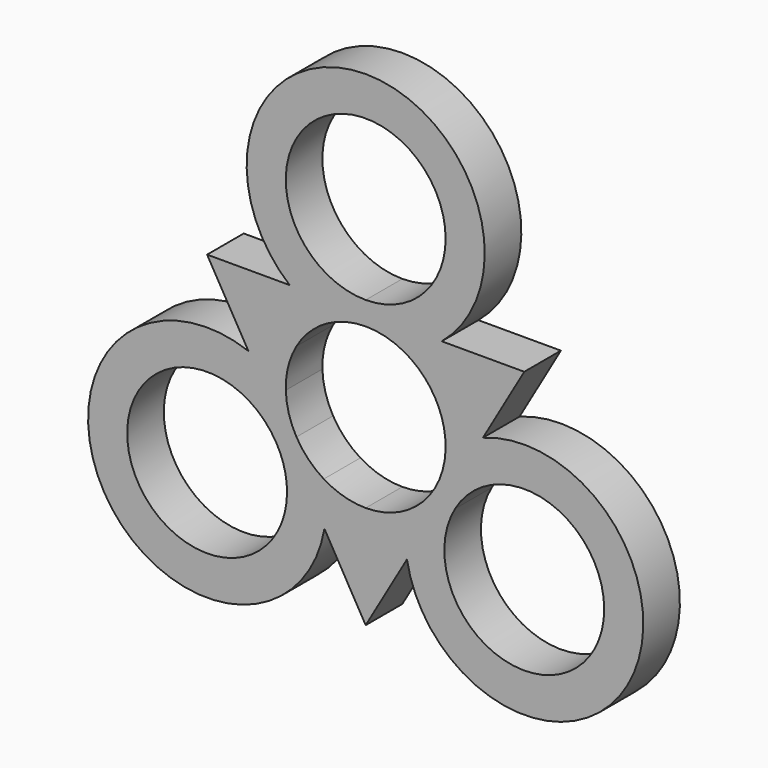
from build123d import *

# Parameters (mm, degrees)
F1_DEPTH = 6.35


with BuildPart() as f1:
    # F0 (on Front) → F1 (new body)
    with BuildSketch(Plane.XZ):
        with BuildLine():
            ThreePointArc((-5.723816, -15.486059), (-5.488792, -12.459869), (-5.811737, -9.441795))
            ThreePointArc((-5.811737, -9.441795), (-7.949382, -7.728591), (-9.60171, -5.54355))
            ThreePointArc((-9.60171, -5.54355), (-10.667847, -3.020071), (-11.082703, -0.312214))
            ThreePointArc((-11.082703, -0.312214), (-13.533332, 1.47553), (-16.269675, 2.784745))
            ThreePointArc((-16.269675, 2.784745), (-36.296072, -20.953359), (-5.723816, -15.486059))
        make_face()
        with BuildLine():
            ThreePointArc((-10.909945, -12.7), (-32.706361, -15.569553), (-12.395335, -7.15645))
            ThreePointArc((-12.395335, -7.15645), (-11.287729, -9.830447), (-10.909945, -12.7))
        make_face(mode=Mode.SUBTRACT)
        with BuildLine():
            ThreePointArc((16.267047, 2.783773), (13.532129, 1.474812), (11.082703, -0.312214))
            ThreePointArc((11.082703, -0.312214), (10.667847, -3.020071), (9.60171, -5.54355))
            ThreePointArc((9.60171, -5.54355), (7.949382, -7.728591), (5.811737, -9.441795))
            ThreePointArc((5.811737, -9.441795), (5.488694, -12.46668), (5.726121, -15.499486))
            ThreePointArc((5.726121, -15.499486), (36.300176, -20.946245), (16.267047, 2.783773))
        make_face()
        with BuildLine():
            ThreePointArc((33.084145, -12.7), (19.127493, -23.409316), (12.395335, -7.15645))
            ThreePointArc((12.395335, -7.15645), (24.866598, -1.990684), (33.084145, -12.7))
        make_face(mode=Mode.SUBTRACT)
        with BuildLine():
            ThreePointArc((0, 11.0871), (2.718465, 10.748662), (5.270966, 9.75401))
            ThreePointArc((5.270966, 9.75401), (8.046167, 10.983368), (10.549412, 12.7))
            ThreePointArc((10.549412, 12.7), (0, 41.91), (-10.549412, 12.7))
            ThreePointArc((-10.549412, 12.7), (-8.046167, 10.983368), (-5.270966, 9.75401))
            ThreePointArc((-5.270966, 9.75401), (-2.718465, 10.748662), (0, 11.0871))
        make_face()
        with BuildLine():
            ThreePointArc((11.0871, 25.4), (7.839764, 17.560236), (0, 14.3129))
            ThreePointArc((0, 14.3129), (-7.839764, 33.239764), (11.0871, 25.4))
        make_face(mode=Mode.SUBTRACT)
        with BuildLine():
            ThreePointArc((5.270966, 9.75401), (7.728591, 7.949382), (9.60171, 5.54355))
            Line((9.60171, 5.54355), (21.997045, 12.7))
            Line((21.997045, 12.7), (10.549412, 12.7))
            ThreePointArc((10.549412, 12.7), (8.046167, 10.983368), (5.270966, 9.75401))
        make_face()
        with BuildLine():
            ThreePointArc((9.60171, 5.54355), (10.709316, 2.869553), (11.0871, 0))
            ThreePointArc((11.0871, 0), (11.086001, -0.156123), (11.082703, -0.312214))
            ThreePointArc((11.082703, -0.312214), (13.532129, 1.474812), (16.267047, 2.783773))
            Line((16.267047, 2.783773), (21.997045, 12.7))
            Line((21.997045, 12.7), (9.60171, 5.54355))
        make_face()
        with BuildLine():
            ThreePointArc((5.726121, -15.499486), (5.488694, -12.46668), (5.811737, -9.441795))
            ThreePointArc((5.811737, -9.441795), (3.020071, -10.667847), (0, -11.0871))
            Line((0, -11.0871), (0, -25.4))
            Line((0, -25.4), (5.726121, -15.499486))
        make_face()
        with BuildLine():
            Line((0, -25.4), (0, -11.0871))
            ThreePointArc((0, -11.0871), (-3.020071, -10.667847), (-5.811737, -9.441795))
            ThreePointArc((-5.811737, -9.441795), (-5.488792, -12.459869), (-5.723816, -15.486059))
            Line((-5.723816, -15.486059), (0, -25.4))
        make_face()
        with BuildLine():
            ThreePointArc((-11.082703, -0.312214), (-10.748662, 2.718465), (-9.60171, 5.54355))
            Line((-9.60171, 5.54355), (-21.997045, 12.7))
            Line((-21.997045, 12.7), (-16.269675, 2.784745))
            ThreePointArc((-16.269675, 2.784745), (-13.533332, 1.47553), (-11.082703, -0.312214))
        make_face()
        with BuildLine():
            ThreePointArc((-9.60171, 5.54355), (-7.728591, 7.949382), (-5.270966, 9.75401))
            ThreePointArc((-5.270966, 9.75401), (-8.046167, 10.983368), (-10.549412, 12.7))
            Line((-10.549412, 12.7), (-21.997045, 12.7))
            Line((-21.997045, 12.7), (-9.60171, 5.54355))
        make_face()
    extrude(amount=F1_DEPTH)


solid = f1.part
